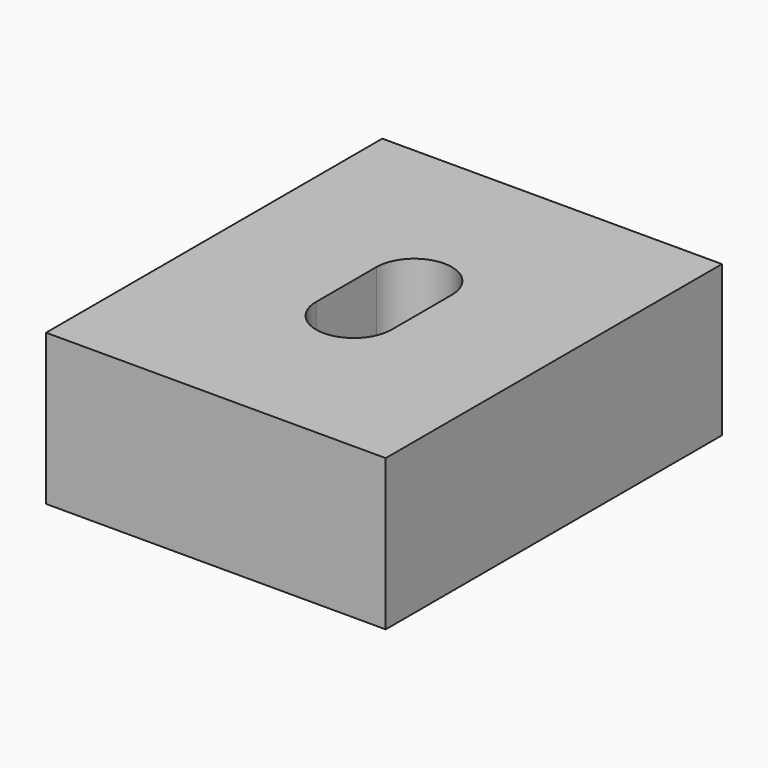
from build123d import *

# Parameters (mm, degrees)
F0_W     = 28.606172
F0_H     = 35.397082
F1_DEPTH = 12.7


with BuildPart() as f1:
    # F0 (on Top) → F1 (new body)
    with BuildSketch(Plane.XY):
        Rectangle(F0_W, F0_H)
        with BuildLine():
            Line((3.175, 3.175), (3.175, -3.175))
            ThreePointArc((3.175, -3.175), (0, -6.35), (-3.175, -3.175))
            Line((-3.175, -3.175), (-3.175, 3.175))
            ThreePointArc((-3.175, 3.175), (0, 6.35), (3.175, 3.175))
        make_face(mode=Mode.SUBTRACT)
    extrude(amount=F1_DEPTH)


solid = f1.part
